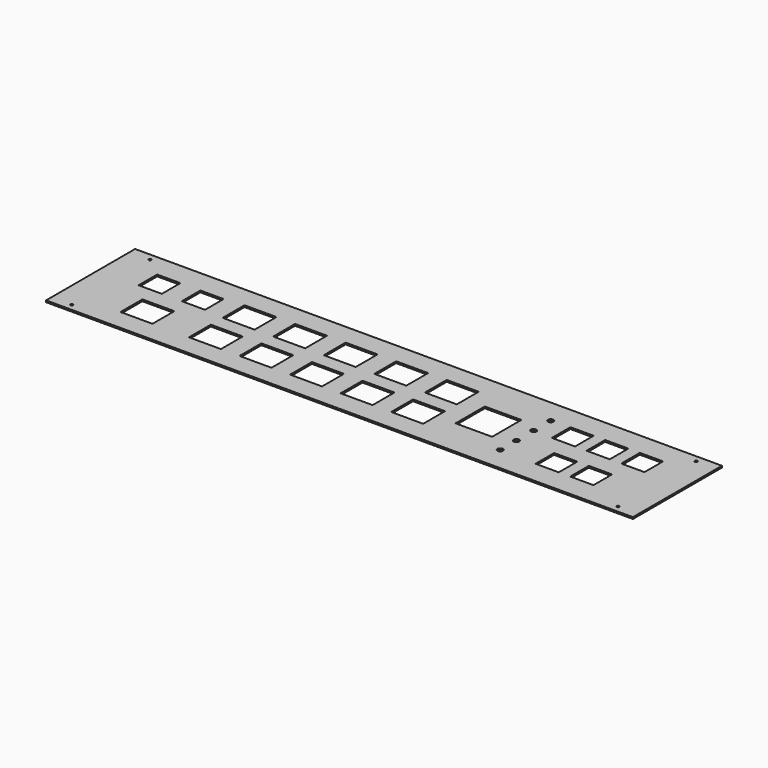
from build123d import *

# Parameters (mm, degrees)
F0_W     = 693
F0_H     = 131.4
F0_R     = 1.575
F0_W_2   = 37.74
F0_H_2   = 32.26
F0_R_2   = 3.25
F0_W_3   = 27.43
F0_H_3   = 27.43
F0_W_4   = 43.13
F0_H_4   = 43.13
F1_DEPTH = 2


with BuildPart() as f1:
    # F0 (on Top) → F1 (new body)
    with BuildSketch(Plane.XY):
        with Locations((20.0601496525, -52.194238013)):
            Rectangle(F0_W, F0_H)
        with Locations((-302.4398503475, -109.894238013)):
            Circle(F0_R, mode=Mode.SUBTRACT)
        with Locations((-239.4398503475, -77.044238013)):
            Rectangle(F0_W_2, F0_H_2, mode=Mode.SUBTRACT)
        with Locations((-158.5898503475, -77.044238013)):
            Rectangle(F0_W_2, F0_H_2, mode=Mode.SUBTRACT)
        with Locations((-98.8898503475, -77.044238013)):
            Rectangle(F0_W_2, F0_H_2, mode=Mode.SUBTRACT)
        with Locations((-39.1898503475, -77.044238013)):
            Rectangle(F0_W_2, F0_H_2, mode=Mode.SUBTRACT)
        with Locations((187.1601496525, -89.469238013)):
            Circle(F0_R_2, mode=Mode.SUBTRACT)
        with Locations((342.5601496525, -109.894238013)):
            Circle(F0_R, mode=Mode.SUBTRACT)
        with Locations((20.5101496525, -77.044238013)):
            Rectangle(F0_W_2, F0_H_2, mode=Mode.SUBTRACT)
        with Locations((80.2101496525, -77.044238013)):
            Rectangle(F0_W_2, F0_H_2, mode=Mode.SUBTRACT)
        with Locations((187.1601496525, -65.7151937485)):
            Circle(F0_R_2, mode=Mode.SUBTRACT)
        with Locations((243.5601496525, -77.044238013)):
            Rectangle(F0_W_3, F0_H_3, mode=Mode.SUBTRACT)
        with Locations((284.5601496525, -77.044238013)):
            Rectangle(F0_W_3, F0_H_3, mode=Mode.SUBTRACT)
        with Locations((-264.9398503475, -27.344238013)):
            Rectangle(F0_W_3, F0_H_3, mode=Mode.SUBTRACT)
        with Locations((-213.9398503475, -27.344238013)):
            Rectangle(F0_W_3, F0_H_3, mode=Mode.SUBTRACT)
        with Locations((-158.5898503475, -27.344238013)):
            Rectangle(F0_W_2, F0_H_2, mode=Mode.SUBTRACT)
        with Locations((-98.8898503475, -27.344238013)):
            Rectangle(F0_W_2, F0_H_2, mode=Mode.SUBTRACT)
        with Locations((-39.1898503475, -27.344238013)):
            Rectangle(F0_W_2, F0_H_2, mode=Mode.SUBTRACT)
        with Locations((-302.4398503475, 5.505761987)):
            Circle(F0_R, mode=Mode.SUBTRACT)
        with Locations((143.4101496525, -52.194238013)):
            Rectangle(F0_W_4, F0_H_4, mode=Mode.SUBTRACT)
        with Locations((187.1601496525, -40.0840714574)):
            Circle(F0_R_2, mode=Mode.SUBTRACT)
        with Locations((20.5101496525, -27.344238013)):
            Rectangle(F0_W_2, F0_H_2, mode=Mode.SUBTRACT)
        with Locations((80.2101496525, -27.344238013)):
            Rectangle(F0_W_2, F0_H_2, mode=Mode.SUBTRACT)
        with Locations((223.0601496525, -27.344238013)):
            Rectangle(F0_W_3, F0_H_3, mode=Mode.SUBTRACT)
        with Locations((264.0601496525, -27.344238013)):
            Rectangle(F0_W_3, F0_H_3, mode=Mode.SUBTRACT)
        with Locations((305.0601496525, -27.344238013)):
            Rectangle(F0_W_3, F0_H_3, mode=Mode.SUBTRACT)
        with Locations((187.1601496525, -14.919238013)):
            Circle(F0_R_2, mode=Mode.SUBTRACT)
        with Locations((342.5601496525, 5.505761987)):
            Circle(F0_R, mode=Mode.SUBTRACT)
    extrude(amount=F1_DEPTH)


solid = f1.part
